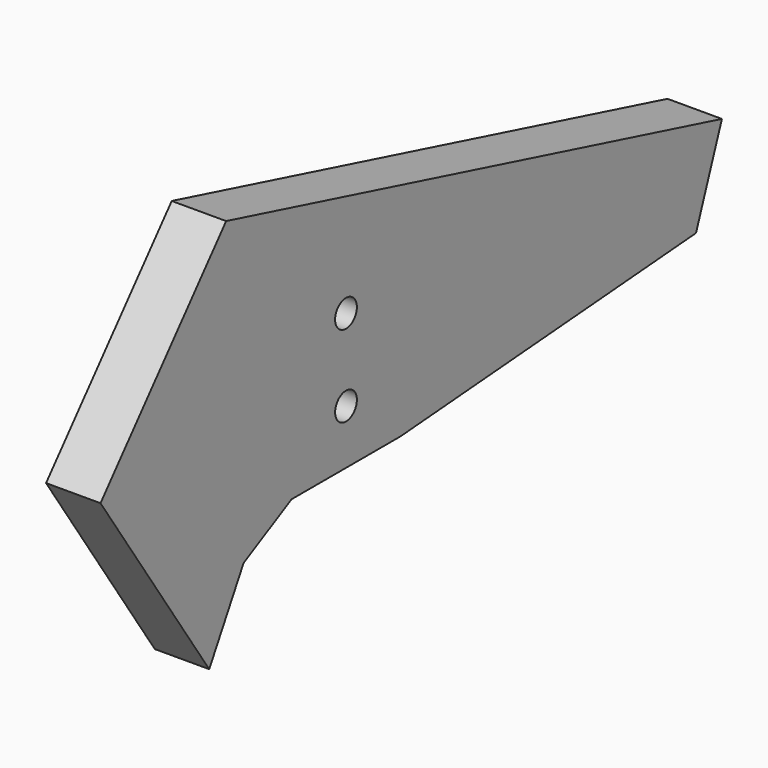
from build123d import *

# Parameters (mm, degrees)
F0_W     = 50
F0_H     = 70
F1_DEPTH = 20
F3_D     = 10
F3_DEPTH = 100
F5_DEPTH = 20


with BuildPart() as f1:
    # F0 (on Right) → F1 (new body)
    with BuildSketch(Plane.YZ):
        with Locations((25, 35)):
            Rectangle(F0_W, F0_H)
    extrude(amount=F1_DEPTH)

    # F3
    with Locations(Plane.YZ.offset(20)):
        with Locations((25, 20), (25, 50)):
            Hole(F3_D / 2, depth=F3_DEPTH)

    # F4 (on face) → F5 (join)
    with BuildSketch(Plane.YZ.offset(20)):
        Polygon((-22.037402, -11.649207), (0, 0), (0, 70), (50, 70), (50, 0), (185.781255, 10.607836), (197.686195, 42.699385), (-30.06028, 102.22403), (-87.773323, 34.417696), (-37.824381, -39.59991), align=None)
    extrude(amount=-F5_DEPTH)


solid = f1.part
